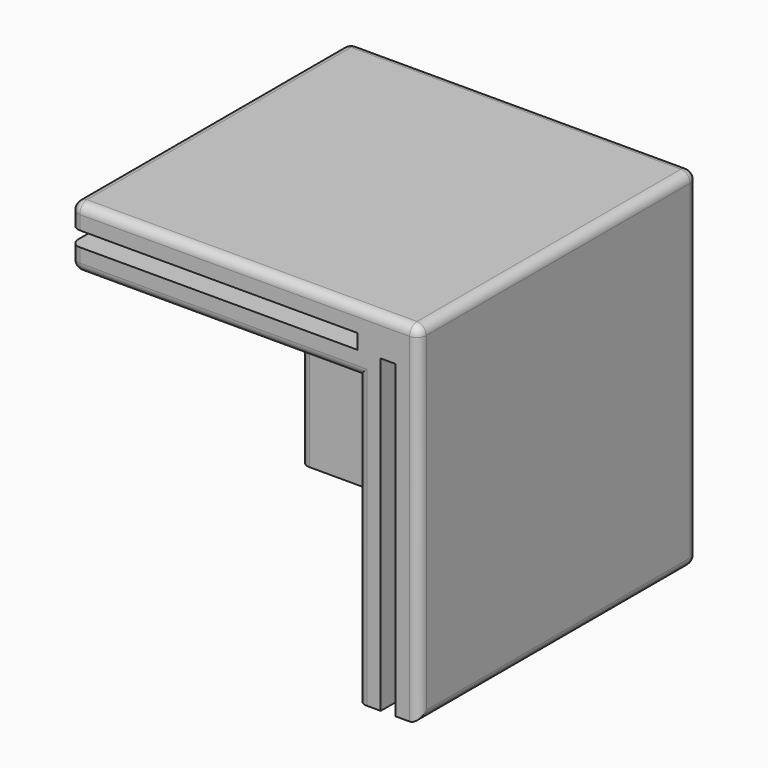
from build123d import *

# Parameters (mm, degrees)
F0_W      = 75
F0_H      = 75
F1_DEPTH  = 5
F2_W      = 5
F2_H      = 5
F2_H_2    = 70
F3_DEPTH  = 75
F4_W      = 5
F4_H      = 75
F5_DEPTH  = 70
F6_DEPTH  = 5
F7_W      = 3.2
F7_H      = 3.2
F8_DEPTH  = 75
F9_W      = 61.8
F9_H      = 5
F10_DEPTH = 61.8
F11_R     = 2
F12_W     = 3.2
F12_H     = 3.2
F13_DEPTH = 75
F14_W     = 3.2
F14_H     = 3.2
F15_DEPTH = 75


with BuildPart() as f1:
    # F0 (on Top) → F1 (new body)
    with BuildSketch(Plane.XY):
        Rectangle(F0_W, F0_H)
    extrude(amount=F1_DEPTH)

    # F2 (on face) → F3 (join, through all)
    with BuildSketch(Plane(origin=(-37.5, 0, 0), x_dir=(0, -1, 0), z_dir=(-1, 0, 0))):
        with Locations((-35, 2.5)):
            Rectangle(F2_W, F2_H)
        with Locations((-26.8, 2.5)):
            Rectangle(F2_W, F2_H)
        with Locations((-26.8, -35)):
            Rectangle(F2_W, F2_H_2)
        with Locations((-35, -35)):
            Rectangle(F2_W, F2_H_2)
    extrude(amount=-F3_DEPTH)

    # F4 (on face) → F5 (join, through all)
    with BuildSketch(Plane.XZ.offset(37.5)):
        with Locations((35, -32.5)):
            Rectangle(F4_W, F4_H)
        with Locations((26.8, -32.5)):
            Rectangle(F4_W, F4_H)
    extrude(amount=-F5_DEPTH)

    # F6 (add, through all): a face of the model
    f6_faces = [f1.faces().sort_by_distance(p)[0] for p in [
        (30.9, 30.9, 0),
    ]]
    extrude(f6_faces, amount=-F6_DEPTH)

    # F7 (on face) → F8 (join, through all)
    with BuildSketch(Plane(origin=(0, 0, -70), x_dir=(1, 0, 0), z_dir=(0, 0, -1))):
        with Locations((30.9, -30.9)):
            Rectangle(F7_W, F7_H)
    extrude(amount=-F8_DEPTH)

    # F9 (on face) → F10 (join, through all)
    with BuildSketch(Plane(origin=(-37.5, 0, 0), x_dir=(0, -1, 0), z_dir=(-1, 0, 0))):
        with Locations((6.6, -5.7)):
            Rectangle(F9_W, F9_H)
    extrude(amount=-F10_DEPTH)

    # F11
    f11_edges = [f1.edges().sort_by_distance(p)[0] for p in [
        (-37.5, 0, 5),
        (0, -37.5, 5),
        (37.5, 0, 5),
        (0, 37.5, 5),
        (37.5, 0, -70),
        (37.5, -37.5, -32.5),
        (37.5, 37.5, -32.5),
        (-37.5, 37.5, -32.5),
        (0, 37.5, -70),
        (-37.5, -37.5, -5.7),
        (-37.5, -6.6, -8.2),
        (-37.5, 24.3, -39.1),
        (24.3, -37.5, -39.1),
        (-6.6, -37.5, -8.2),
        (-37.5, -37.5, 2.5),
        (24.3, 24.3, -39.1),
    ]]
    fillet(f11_edges, radius=F11_R)

    # F12 (on face) → F13 (join, through all)
    with BuildSketch(Plane(origin=(-37.5, 0, 0), x_dir=(0, -1, 0), z_dir=(-1, 0, 0))):
        with Locations((-30.9, -1.6)):
            Rectangle(F12_W, F12_H)
    extrude(amount=-F13_DEPTH)

    # F14 (on face) → F15 (join, through all)
    with BuildSketch(Plane.XZ.offset(37.5)):
        with Locations((30.9, -1.6)):
            Rectangle(F14_W, F14_H)
    extrude(amount=-F15_DEPTH)


solid = f1.part
